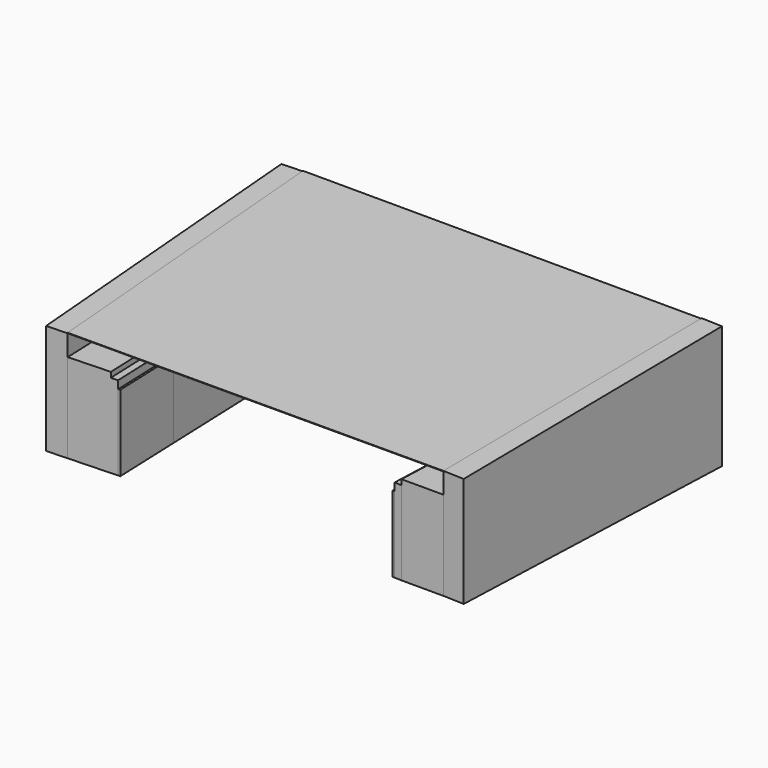
from build123d import *

# Parameters (mm, degrees)
F1_DEPTH = 203.2
F2_DEPTH = 12.7
F3_DEPTH = 19.05
F4_W     = 746.8187077512
F4_H     = 215.9
F5_DEPTH = 50.8
F7_DEPTH = 50.8
F9_DEPTH = 1.27


with BuildPart() as f1:
    # F0 (on Top) → F1 (new body)
    with BuildSketch(Plane.XY):
        Polygon((-101.188883044, -587.583909848), (0.3360406256, -583.6788011578), (-27.333590572, 135.6756184324), (-28.3098677445, 161.0568493498), (-129.9849995929, 161.0568493498), align=None)
        Polygon((0.3360406256, -583.6788011578), (17.3414653403, -583.0246954522), (-10.3281658573, 136.329724138), (-27.333590572, 135.6756184324), align=None)
        Polygon((17.3414653403, -583.0246954522), (22.417710738, -582.8294195902), (15.875, -412.75), (0, 0), (-5.2519204596, 136.525), (-10.3281658573, 136.329724138), align=None)
        Polygon((704.85, 136.525), (710.1019204596, 136.525), (715.1781658573, 136.329724138), (715.1781658573, 141.409724138), (-10.5234417193, 141.4059695357), (-10.3281658573, 136.329724138), (-5.2519204596, 136.525), align=None)
        Polygon((715.1781658573, 141.409724138), (715.1781658573, 136.329724138), (732.183590572, 135.6756184324), (733.1598677445, 161.0568493498), (-28.3098677445, 161.0568493498), (-27.333590572, 135.6756184324), (-10.3281658573, 136.329724138), (-10.5234417193, 141.4059695357), align=None)
        Polygon((732.183590572, 135.6756184324), (704.5139593744, -583.6788011578), (806.113959373, -583.6782755043), (834.8187647438, 162.5885778369), (733.1598677445, 161.0568493498), align=None)
        Polygon((715.1781658573, 136.329724138), (687.5085346597, -583.0246954522), (704.5139593744, -583.6788011578), (732.183590572, 135.6756184324), align=None)
        Polygon((704.85, 0), (688.975, -412.75), (682.432289262, -582.8294195902), (687.5085346597, -583.0246954522), (715.1781658573, 136.329724138), (710.1019204596, 136.525), align=None)
    extrude(amount=-F1_DEPTH)

    # F0 (on Top) → F2 (join)
    with BuildSketch(Plane.XY):
        Polygon((-101.188883044, -587.583909848), (0.3360406256, -583.6788011578), (-27.333590572, 135.6756184324), (-28.3098677445, 161.0568493498), (-129.9849995929, 161.0568493498), align=None)
        Polygon((732.183590572, 135.6756184324), (704.5139593744, -583.6788011578), (806.113959373, -583.6782755043), (834.8187647438, 162.5885778369), (733.1598677445, 161.0568493498), align=None)
    extrude(amount=F2_DEPTH)

    # F0 (on Top) → F3 (cut)
    with BuildSketch(Plane.XY):
        Polygon((17.3414653403, -583.0246954522), (22.417710738, -582.8294195902), (15.875, -412.75), (0, 0), (-5.2519204596, 136.525), (-10.3281658573, 136.329724138), align=None)
        Polygon((704.85, 0), (688.975, -412.75), (682.432289262, -582.8294195902), (687.5085346597, -583.0246954522), (715.1781658573, 136.329724138), (710.1019204596, 136.525), align=None)
        Polygon((704.85, 136.525), (710.1019204596, 136.525), (715.1781658573, 136.329724138), (715.1781658573, 141.409724138), (-10.5234417193, 141.4059695357), (-10.3281658573, 136.329724138), (-5.2519204596, 136.525), align=None)
    extrude(amount=-F3_DEPTH, mode=Mode.SUBTRACT)

    # F6 (on face) → F7 (join)
    with BuildSketch(Plane(origin=(-123.6071439631, -4.7544909626, 0), x_dir=(0.0384361092, -0.9992610597, 0), z_dir=(-0.9992610597, -0.0384361092, 0))):
        Polygon((-165.9339555926, 95.25), (-165.9339555926, 12.7), (-165.9339555926, -203.2), (583.2604134869, -203.2), (583.2604134869, 12.7), (583.2604134869, 63.5), align=None)
    extrude(amount=F7_DEPTH)


with BuildPart() as f5:
    # F4 (on face) → F5 (new body)
    with BuildSketch(Plane(origin=(827.3408037059, -31.8232769409, 0), x_dir=(0.0384361092, 0.9992610597, 0), z_dir=(0.9992610597, -0.0384361092, 0))):
        Polygon((-552.2630879931, 63.5), (-552.2630879931, 12.7), (194.555619758, 12.7), (194.555619758, 95.25), align=None)
        with Locations((-178.8537341176, -95.25)):
            Rectangle(F4_W, F4_H)
    extrude(amount=F5_DEPTH)


with BuildPart() as f9:
    # F8 (on face) → F9 (new body)
    with BuildSketch(Plane(origin=(0.1434386281, -3.7291140724, 88.0597564011), x_dir=(0.9999986758, 6.88554e-05, -0.0016259603), z_dir=(0.0016274176, -0.0423095639, 0.9991032241))):
        Polygon((836.6636633873, 164.9426218293), (-130.1286105432, 164.9426218293), (-101.3324558611, -584.3710952719), (806.413769722, -580.3514122963), align=None)
    extrude(amount=F9_DEPTH)


solid = Compound([f1.part, f5.part, f9.part])
